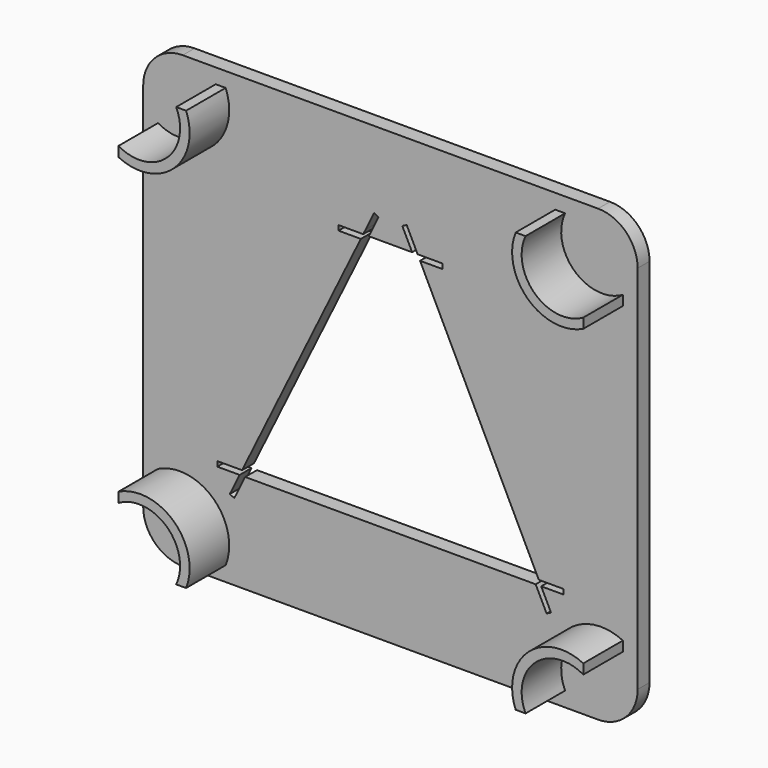
from build123d import *

# Parameters (mm, degrees)
F0_W     = 100.019608
F0_H     = 91
F2_DEPTH = 3
F3_DEPTH = 10
F4_R     = 8


with BuildPart() as f2:
    # F0 (on Front) → F2 (new body)
    with BuildSketch(Plane.XZ):
        with Locations((0, 25.5)):
            Rectangle(F0_W, F0_H)
        Polygon((0, 0), (-29.386316, 0), (-31.587102, -4.489604), (-32.485023, -4.049446), (-30.5, 0), (-31.613684, 0), (-35.009804, 0), (-35.009804, 1), (-30.009804, 1), (-5.990196, 50), (-10.5, 50), (-10.5, 51), (-5.5, 51), (-5.009804, 52), (-3.299214, 55.489604), (-2.401293, 55.049446), (-4.386316, 51), (0, 51), (4.386316, 51), (2.401293, 55.049446), (3.299214, 55.489604), (5.009804, 52), (5.5, 51), (10.5, 51), (10.5, 50), (5.990196, 50), (30.009804, 1), (35.009804, 1), (35.009804, 0), (31.613684, 0), (30.5, 0), (32.485023, -4.049446), (31.587102, -4.489604), (29.386316, 0), align=None, mode=Mode.SUBTRACT)
    extrude(amount=-F2_DEPTH)

    # F1 (on face) → F3 (join)
    with BuildSketch(Plane.XZ):
        with BuildLine():
            Line((-35.334654, -17), (-33.334654, -17))
            ThreePointArc((-33.334654, -17), (-35.804867, -5.945831), (-47.009804, -4.288724))
            Line((-47.009804, -4.288724), (-47.009804, -6.288724))
            ThreePointArc((-47.009804, -6.288724), (-37.230822, -7.34828), (-35.334654, -17))
        make_face()
        with BuildLine():
            ThreePointArc((-47.009804, 55.288724), (-35.804867, 56.945831), (-33.334654, 68))
            Line((-33.334654, 68), (-35.334654, 68))
            ThreePointArc((-35.334654, 68), (-37.230822, 58.34828), (-47.009804, 57.288724))
            Line((-47.009804, 57.288724), (-47.009804, 55.288724))
        make_face()
        with BuildLine():
            Line((35.334654, 68), (33.334654, 68))
            ThreePointArc((33.334654, 68), (35.804867, 56.945831), (47.009804, 55.288724))
            Line((47.009804, 55.288724), (47.009804, 57.288724))
            ThreePointArc((47.009804, 57.288724), (37.230822, 58.34828), (35.334654, 68))
        make_face()
        with BuildLine():
            ThreePointArc((47.009804, -4.288724), (35.804867, -5.945831), (33.334654, -17))
            Line((33.334654, -17), (35.334654, -17))
            ThreePointArc((35.334654, -17), (37.230822, -7.34828), (47.009804, -6.288724))
            Line((47.009804, -6.288724), (47.009804, -4.288724))
        make_face()
    extrude(amount=F3_DEPTH)

    # F4
    f4_edges = [f2.edges().sort_by_distance(p)[0] for p in [
        (-50.009804, 1.5, 71),
        (50.009804, 1.5, 71),
        (50.009804, 1.5, -20),
        (-50.009804, 1.5, -20),
    ]]
    fillet(f4_edges, radius=F4_R)


solid = f2.part
